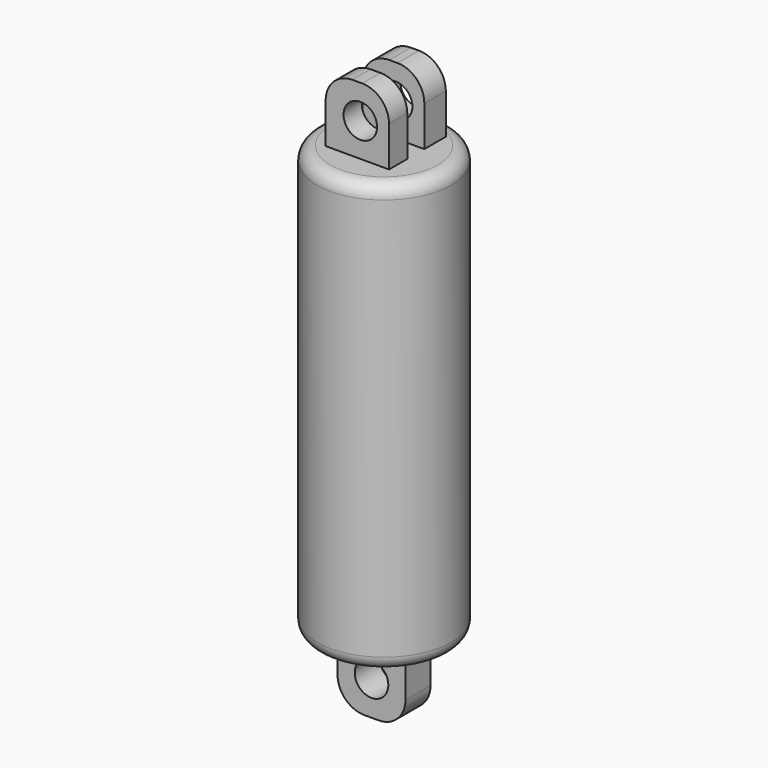
from build123d import *

# Parameters (mm, degrees)
F0_R     = 50
F1_DEPTH = 320
F2_W     = 47.244698
F2_H     = 16.991875
F2_W_2   = 46.056544
F2_H_2   = 20.037373
F3_DEPTH = 50
F4_R     = 12.5
F5_DEPTH = 72.138193
F6_W     = 50.61818
F6_H     = 23.403664
F7_DEPTH = 51
F8_R     = 12.5
F9_DEPTH = 61.702832
F10_R    = 20
F11_R    = 10


with BuildPart() as f1:
    # F0 (on Top) → F1 (new body)
    with BuildSketch(Plane.XY):
        Circle(F0_R)
    extrude(amount=F1_DEPTH)

    # F2 (on face) → F3 (join)
    with BuildSketch(Plane.XY.offset(320)):
        with Locations((-2.225159, -13.641255)):
            Rectangle(F2_W, F2_H)
        with Locations((-1.631082, 20.769891)):
            Rectangle(F2_W_2, F2_H_2)
    extrude(amount=F3_DEPTH)

    # F4 (on face) → F5 (cut, through all)
    with BuildSketch(Plane.XZ.offset(22.137193)):
        with Locations((0, 345)):
            Circle(F4_R)
    extrude(amount=-F5_DEPTH, mode=Mode.SUBTRACT)

    # F6 (on Top) → F7 (join)
    with BuildSketch(Plane.XY):
        Rectangle(F6_W, F6_H)
    extrude(amount=-F7_DEPTH)

    # F8 (on face) → F9 (cut, through all)
    with BuildSketch(Plane(origin=(0, 11.701832, 0), x_dir=(-1, 0, 0), z_dir=(0, 1, 0))):
        with Locations((0, -25.5)):
            Circle(F8_R)
    extrude(amount=-F9_DEPTH, mode=Mode.SUBTRACT)

    # F10
    f10_edges = [f1.edges().sort_by_distance(p)[0] for p in [
        (21.39719, -13.641255, 370),
        (21.39719, 20.769892, 370),
        (-24.659354, 20.769892, 370),
        (-25.847508, -13.641255, 370),
        (25.30909, 0, -51),
        (-25.30909, 0, -51),
    ]]
    fillet(f10_edges, radius=F10_R)

    # F11
    f11_edges = [f1.edges().sort_by_distance(p)[0] for p in [
        (-50, 0, 0),
        (-50, 0, 320),
    ]]
    fillet(f11_edges, radius=F11_R)


solid = f1.part
